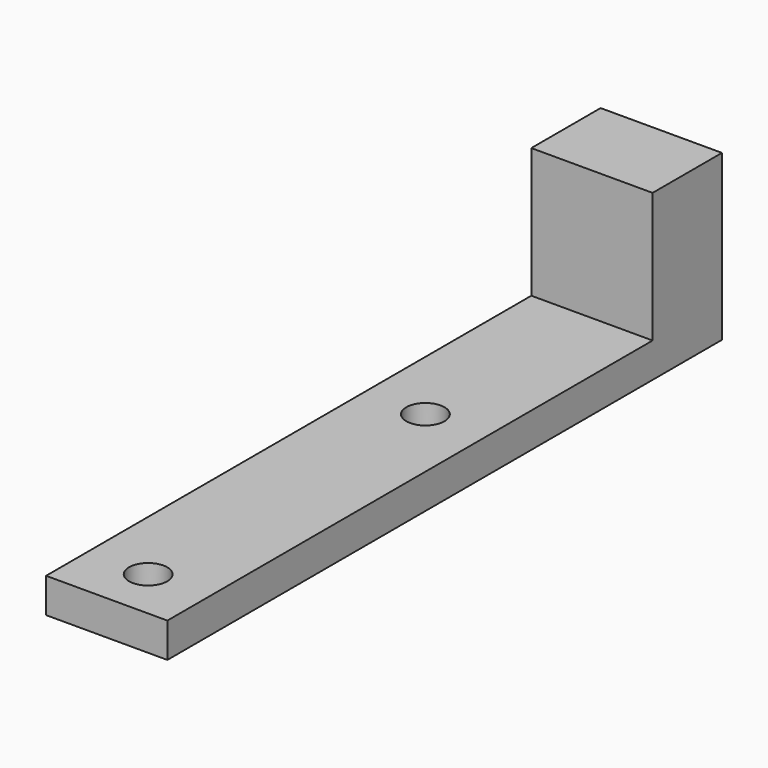
from build123d import *

# Parameters (mm, degrees)
F0_W     = 17.78
F0_H     = 101.6
F0_R     = 2.794
F1_DEPTH = 5.08
F2_W     = 17.78
F2_H     = 12.7
F3_DEPTH = 19.05


with BuildPart() as f1:
    # F0 (on Top) → F1 (new body)
    with BuildSketch(Plane.XY):
        with Locations((0, 12.7)):
            Rectangle(F0_W, F0_H)
        with Locations((0, -30.513791)):
            Circle(F0_R, mode=Mode.SUBTRACT)
        with Locations((0, 20.286209)):
            Circle(F0_R, mode=Mode.SUBTRACT)
    extrude(amount=F1_DEPTH)

    # F2 (on face) → F3 (join)
    with BuildSketch(Plane.XY.offset(5.08)):
        with Locations((0, 57.15)):
            Rectangle(F2_W, F2_H)
    extrude(amount=F3_DEPTH)


solid = f1.part
